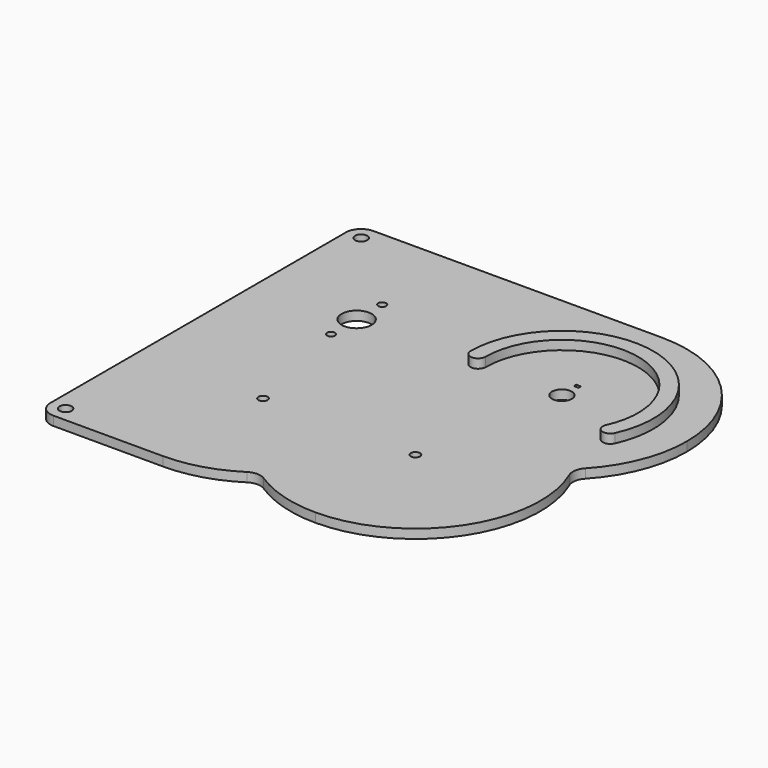
from build123d import *

# Parameters (mm, degrees)
F3_W      = 140.6824088833
F3_H      = 131.2403876506
F3_W_2    = 1.6
F3_H_2    = 1
F4_DEPTH  = 3
F5_D      = 9.85
F6_D      = 6.5
F7_D      = 2.6
F8_D      = 3
F9_R      = 2
F10_DEPTH = 3.001
F11_R     = 5
F13_DEPTH = 3


with BuildPart() as f4:
    # F3 (on Top) → F4 (new body)
    with BuildSketch(Plane.XY):
        with Locations((4.3412044417, 0)):
            Rectangle(F3_W, F3_H)
        with Locations((33.6824088833, 30.9951938253)):
            Rectangle(F3_W_2, F3_H_2, mode=Mode.SUBTRACT)
    extrude(amount=F4_DEPTH)

    # F5 (through all)
    with Locations(Plane(origin=(0, 0, 0), x_dir=(1, 0, 0), z_dir=(0, 0, -1))):
        with Locations((-33.6824088833, -24.6201938253)):
            Hole(F5_D / 2)

    # F6 (through all)
    with Locations(Plane(origin=(0, 0, 0), x_dir=(1, 0, 0), z_dir=(0, 0, -1))):
        with Locations((33.6824088833, -24.6201938253)):
            Hole(F6_D / 2)

    # F7 (through all)
    with Locations(Plane(origin=(0, 0, 0), x_dir=(1, 0, 0), z_dir=(0, 0, -1))):
        with Locations((-33.6824088833, -14.1201938253), (-33.6824088833, -35.1201938253)):
            Hole(F7_D / 2)

    # F8 (through all)
    with Locations(Plane(origin=(0, 0, 0), x_dir=(1, 0, 0), z_dir=(0, 0, -1))):
        with Locations((-25, 24.6201938253), (25, 24.6201938253)):
            Hole(F8_D / 2)

    # F9 (on face) → F10 (cut, through all)
    with BuildSketch(Plane.XY.offset(3)):
        with BuildLine():
            ThreePointArc((33.6824088833, 65.6201938253), (62.6737868311, 53.6115719349), (74.6824088833, 24.6201940542))
            Line((74.6824088833, 24.6201940542), (74.6824088833, 65.6201938253))
            Line((74.6824088833, 65.6201938253), (33.6824088833, 65.6201938253))
        make_face()
        with BuildLine():
            ThreePointArc((61.3436684683, -5.642897857), (60.0647196959, -45.8679097649), (25, -65.6201938253))
            Line((25, -65.6201938253), (74.6824088833, -65.6201938253))
            Line((74.6824088833, -65.6201938253), (74.6824088833, 24.6201940542))
            ThreePointArc((74.6824088833, 24.6201940542), (71.1998158427, 8.084046298), (61.3436684683, -5.642897857))
        make_face()
        with BuildLine():
            ThreePointArc((0, -57.1163474438), (-11.7966348676, -63.4360559075), (-25, -65.6201938253))
            Line((-25, -65.6201938253), (25, -65.6201938253))
            ThreePointArc((25, -65.6201938253), (11.7966348676, -63.4360559075), (0, -57.1163474438))
        make_face()
        with Locations((-61, -60.6201938253)):
            Circle(F9_R)
        with Locations((-61, 60.6201938253)):
            Circle(F9_R)
    extrude(amount=-F10_DEPTH, mode=Mode.SUBTRACT)

    # F11
    f11_edges = [f4.edges().sort_by_distance(p)[0] for p in [
        (0, -57.116347, 1.5),
        (61.343668, -5.642898, 1.5),
        (-66, -65.620194, 1.5),
        (-66, 65.620194, 1.5),
    ]]
    fillet(f11_edges, radius=F11_R)


with BuildPart() as f13:
    # F12 (on face) → F13 (new body)
    with BuildSketch(Plane.XY.offset(3)):
        with BuildLine():
            ThreePointArc((3.6824088833, 24.6201938253), (6.1824088833, 22.1201938253), (8.6824088833, 24.6201938253))
            ThreePointArc((8.6824088833, 24.6201938253), (38.9820562112, 49.0520119771), (56.4355079394, 14.2617922427))
            ThreePointArc((56.4355079394, 14.2617922427), (57.6749776867, 10.9506421788), (60.9861277506, 12.1901119262))
            ThreePointArc((60.9861277506, 12.1901119262), (40.0419856768, 53.9383756074), (3.6824088833, 24.6201938253))
        make_face()
    extrude(amount=F13_DEPTH)


solid = Compound([f4.part, f13.part])
